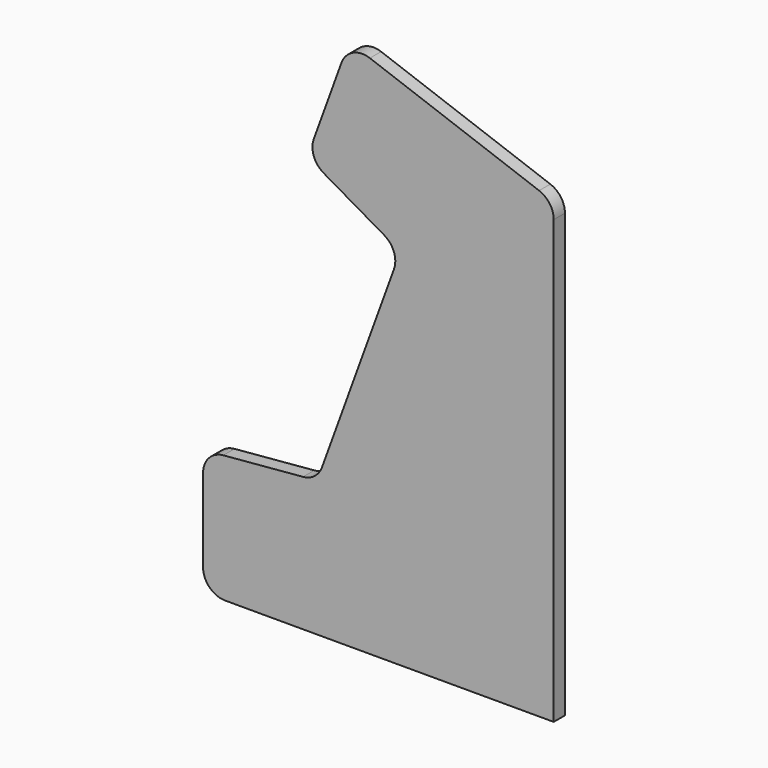
from build123d import *

# Parameters (mm, degrees)
PAD_DEPTH = 19
FILLET_R  = 30


with BuildPart() as part:
    # Sketch001 → Pad (new body)
    with BuildSketch(Plane.XZ):
        Polygon((-39.633348, -30.069131), (-39.633348, 139.930869), (114.876213, 153.448704), (227.584428, 463.11198), (101.724005, 535.777529), (158.157329, 690.826811), (435.366652, 589.930869), (435.366652, -30.069131), align=None)
    extrude(amount=-PAD_DEPTH)

    # Fillet
    fillet_edges = [part.edges().sort_by_distance(p)[0] for p in [
        (-39.633348, 9.5, -30.069131),
        (-39.633348, 9.5, 139.930869),
        (101.724005, 9.5, 535.777529),
        (158.157329, 9.5, 690.826811),
        (435.366652, 9.5, 589.930869),
        (227.584428, 9.5, 463.11198),
        (114.876213, 9.5, 153.448704),
    ]]
    fillet(fillet_edges, radius=FILLET_R)


solid = part.part
